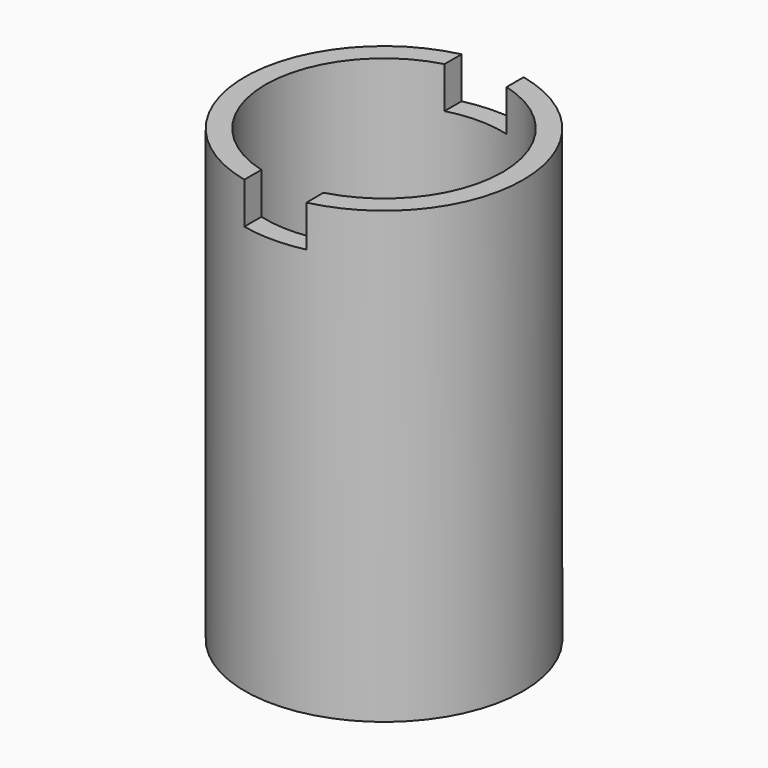
from build123d import *

# Parameters (mm, degrees)
F0_R     = 13.46
F1_DEPTH = 43.5
F2_T     = -2
F3_W     = 6
F3_H     = 30
F4_DEPTH = 4
F5_R     = 1.35
F6_DEPTH = 43.501
F7_R     = 2.35
F7_R_2   = 1.35
F8_DEPTH = 1
F9_R     = 0.5


with BuildPart() as f1:
    # F0 (on Top) → F1 (new body)
    with BuildSketch(Plane.XY):
        Circle(F0_R)
    extrude(amount=F1_DEPTH)

    # F2
    f2_openings = [f1.faces().sort_by_distance(p)[0] for p in [
        (0, 0, 43.5),
    ]]
    offset(amount=F2_T, openings=f2_openings)

    # F3 (on face) → F4 (cut)
    with BuildSketch(Plane.XY.offset(43.5)):
        Rectangle(F3_W, F3_H)
    extrude(amount=-F4_DEPTH, mode=Mode.SUBTRACT)

    # F5 (on face) → F6 (cut, through all)
    with BuildSketch(Plane(origin=(0, 0, 0), x_dir=(1, 0, 0), z_dir=(0, 0, -1))):
        Circle(F5_R)
    extrude(amount=-F6_DEPTH, mode=Mode.SUBTRACT)

    # F7 (on face) → F8 (join)
    with BuildSketch(Plane.XY.offset(2)):
        Circle(F7_R)
        Circle(F7_R_2, mode=Mode.SUBTRACT)
    extrude(amount=F8_DEPTH)

    # F9
    f9_edges = [f1.edges().sort_by_distance(p)[0] for p in [
        (-2.35, 0, 3),
    ]]
    fillet(f9_edges, radius=F9_R)


solid = f1.part
